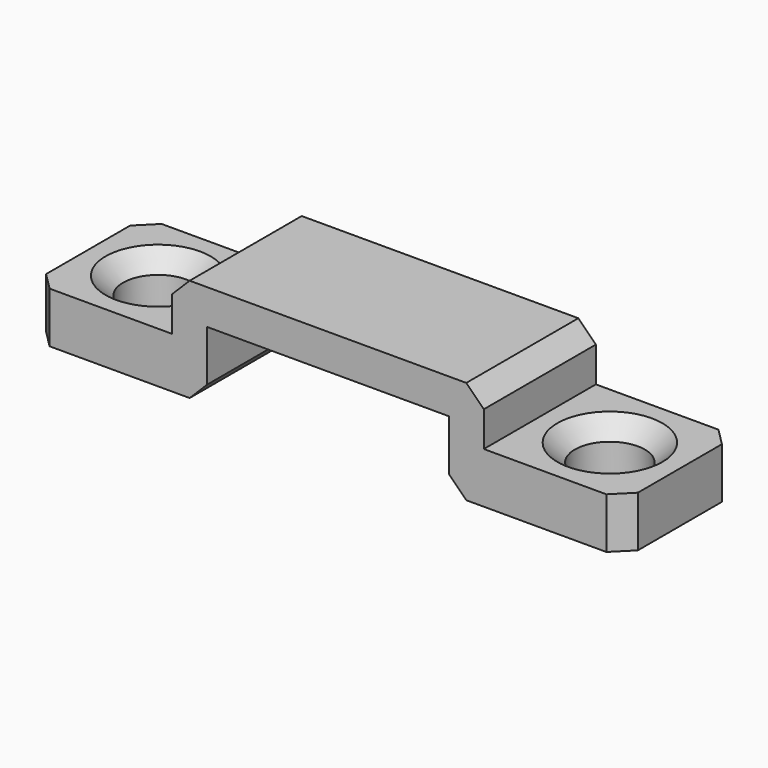
from build123d import *

# Parameters (mm, degrees)
F0_W     = 2
F0_H     = 8
F0_W_2   = 13.8
F1_DEPTH = 2
F0_R     = 2
F2_DEPTH = 3.9
F3_DEPTH = 1
F4_SIZE  = 1


with BuildPart() as f1:
    # F0 (on Top) → F1 (new body)
    with BuildSketch(Plane.XY):
        with Locations((-7.9, 0)):
            Rectangle(F0_W, F0_H)
        Rectangle(F0_W_2, F0_H)
        with Locations((7.9, 0)):
            Rectangle(F0_W, F0_H)
    extrude(amount=F1_DEPTH)

    # F0 (on Top) → F2 (join)
    with BuildSketch(Plane.XY):
        with Locations((-7.9, 0)):
            Rectangle(F0_W, F0_H)
        Polygon((-16.9, -4), (-8.9, -4), (-8.9, 4), (-16.9, 4), (-16.9, 0), align=None)
        with Locations((-12.9, 0)):
            Circle(F0_R, mode=Mode.SUBTRACT)
        with Locations((7.9, 0)):
            Rectangle(F0_W, F0_H)
        Polygon((8.9, 4), (8.9, -4), (16.9, -4), (16.9, 0), (16.9, 4), align=None)
        with Locations((12.9, 0)):
            Circle(F0_R, mode=Mode.SUBTRACT)
    extrude(amount=-F2_DEPTH)

    # F0 (on Top) → F3 (cut)
    with BuildSketch(Plane.XY):
        Polygon((-16.9, -4), (-8.9, -4), (-8.9, 4), (-16.9, 4), (-16.9, 0), align=None)
        with Locations((-12.9, 0)):
            Circle(F0_R, mode=Mode.SUBTRACT)
        Polygon((8.9, 4), (8.9, -4), (16.9, -4), (16.9, 0), (16.9, 4), align=None)
        with Locations((12.9, 0)):
            Circle(F0_R, mode=Mode.SUBTRACT)
    extrude(amount=-F3_DEPTH, mode=Mode.SUBTRACT)

    # F4
    f4_edges = [f1.edges().sort_by_distance(p)[0] for p in [
        (-8.9, 0, 2),
        (8.9, 0, 2),
        (-6.9, 0, -3.9),
        (-14.9, 0, -1),
        (10.9, 0, -1),
        (6.9, 0, -3.9),
        (-16.9, -4, -2.45),
        (-16.9, 4, -2.45),
        (16.9, -4, -2.45),
        (16.9, 4, -2.45),
    ]]
    chamfer(f4_edges, length=F4_SIZE)


solid = f1.part
